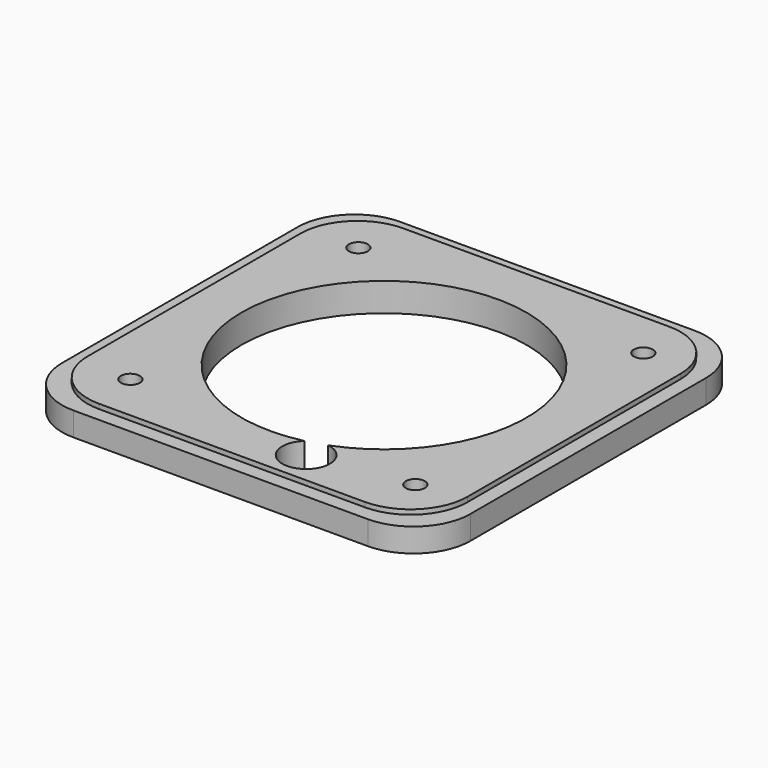
from build123d import *

# Parameters (mm, degrees)
CYLINDER009_R     = 5
CYLINDER009_DEPTH = 10
CYLINDER008_R     = 30
CYLINDER008_DEPTH = 10
CYLINDER012_R     = 2
CYLINDER012_DEPTH = 63
CYLINDER013_R     = 2
CYLINDER013_DEPTH = 63
CYLINDER014_R     = 2
CYLINDER014_DEPTH = 63
CYLINDER011_R     = 2
CYLINDER011_DEPTH = 63
BOX004_W          = 86
BOX004_H          = 86
BOX004_DEPTH      = 5
FILLET003_R       = 12
BOX003_W          = 80
BOX003_H          = 80
BOX003_DEPTH      = 1
FILLET002_R       = 12


with BuildPart() as led:
    # Cylinder009 → Cylinder009 (new body)
    with BuildSketch(Plane(origin=(52, 9, -6), x_dir=(1, 0, 0), z_dir=(0, 0, 1))):
        Circle(CYLINDER009_R)
    extrude(amount=CYLINDER009_DEPTH)


with BuildPart() as speaker:
    # Cylinder008 → Cylinder008 (new body)
    with BuildSketch(Plane(origin=(42, 42, -6), x_dir=(1, 0, 0), z_dir=(0, 0, 1))):
        Circle(CYLINDER008_R)
    extrude(amount=CYLINDER008_DEPTH)


with BuildPart() as rod2:
    # Cylinder012 → Cylinder012 (new body)
    with BuildSketch(Plane(origin=(72.6, 72, -9), x_dir=(1, 0, 0), z_dir=(0, 0, 1))):
        Circle(CYLINDER012_R)
    extrude(amount=CYLINDER012_DEPTH)


with BuildPart() as rod3:
    # Cylinder013 → Cylinder013 (new body)
    with BuildSketch(Plane(origin=(12.6, 12, -9), x_dir=(1, 0, 0), z_dir=(0, 0, 1))):
        Circle(CYLINDER013_R)
    extrude(amount=CYLINDER013_DEPTH)


with BuildPart() as rod4:
    # Cylinder014 → Cylinder014 (new body)
    with BuildSketch(Plane(origin=(12.6, 72, -9), x_dir=(1, 0, 0), z_dir=(0, 0, 1))):
        Circle(CYLINDER014_R)
    extrude(amount=CYLINDER014_DEPTH)


with BuildPart() as holes:
    # Cylinder011 → Cylinder011 (new body)
    with BuildSketch(Plane(origin=(72.6, 12, -9), x_dir=(1, 0, 0), z_dir=(0, 0, 1))):
        Circle(CYLINDER011_R)
    extrude(amount=CYLINDER011_DEPTH)

    # Fusion003: union LED, Speaker, rod2, rod3, rod4
    add(led.part)
    add(speaker.part)
    add(rod2.part)
    add(rod3.part)
    add(rod4.part)


with BuildPart() as fillet003:
    # Box004 → Box004 (new body)
    with BuildSketch(Plane.XY):
        with Locations((43, 43)):
            Rectangle(BOX004_W, BOX004_H)
    extrude(amount=BOX004_DEPTH)

    # Fillet003
    fillet003_edges = [fillet003.edges().sort_by_distance(p)[0] for p in [
        (0, 0, 2.5),
        (0, 86, 2.5),
        (86, 0, 2.5),
        (86, 86, 2.5),
    ]]
    fillet(fillet003_edges, radius=FILLET003_R)


with BuildPart() as fillet003_1:
    # Fillet003 placement: moved
    add(fillet003.part.moved(Location((-3, -3, -5))))


with BuildPart() as frontspeaker:
    # Box003 → Box003 (new body)
    with BuildSketch(Plane.XY):
        with Locations((40, 40)):
            Rectangle(BOX003_W, BOX003_H)
    extrude(amount=BOX003_DEPTH)

    # Fillet002
    fillet002_edges = [frontspeaker.edges().sort_by_distance(p)[0] for p in [
        (0, 0, 0.5),
        (0, 80, 0.5),
        (80, 0, 0.5),
        (80, 80, 0.5),
    ]]
    fillet(fillet002_edges, radius=FILLET002_R)

    # Fusion001: union Fillet003
    add(fillet003_1.part)


with BuildPart() as frontspeaker_1:
    # Fusion001 placement: moved
    add(frontspeaker.part.moved(Location((2, 2, 0))))

    # Cut005: cut holes
    add(holes.part, mode=Mode.SUBTRACT)


solid = frontspeaker_1.part
